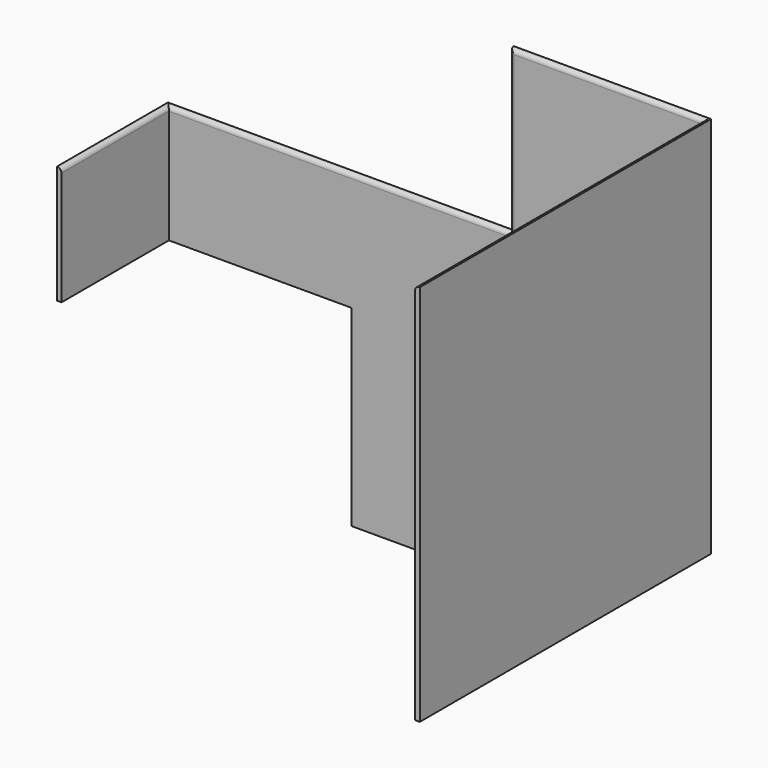
from build123d import *

# Parameters (mm, degrees)
F0_W     = 787.4
F0_H     = 422.275
F1_DEPTH = 19.05
F2_W     = 19.05
F2_H     = 485.775
F3_DEPTH = 571.5
F4_W     = 19.05
F4_H     = 1574.8
F5_DEPTH = 1498.6
F6_R     = 17.78


with BuildPart() as f1:
    # F0 (on Front) → F1 (new body)
    with BuildSketch(Plane.XZ):
        Polygon((1422.4, 0), (0, 0), (0, -485.775), (769.62, -485.775), (1422.4, -485.775), align=None)
        Polygon((1447.8, -485.775), (1422.4, -485.775), (769.62, -485.775), (769.62, -1276.35), (1447.8, -1276.35), (1447.8, -908.05), align=None)
        with Locations((1841.5, -696.9125)):
            Rectangle(F0_W, F0_H)
        Polygon((1422.4, 666.75), (1422.4, 0), (1422.4, -485.775), (1447.8, -485.775), (2235.2, -485.775), (2235.2, 666.75), align=None)
    extrude(amount=F1_DEPTH)

    # F2 (on face) → F3 (join)
    with BuildSketch(Plane(origin=(0, 0, 0), x_dir=(-1, 0, 0), z_dir=(0, 1, 0))):
        with Locations((-9.525, -242.8875)):
            Rectangle(F2_W, F2_H)
    extrude(amount=-F3_DEPTH)

    # F4 (on face) → F5 (join)
    with BuildSketch(Plane(origin=(0, 0, 0), x_dir=(-1, 0, 0), z_dir=(0, 1, 0))):
        with Locations((-2225.675, -120.65)):
            Rectangle(F4_W, F4_H)
    extrude(amount=-F5_DEPTH)

    # F6
    f6_edges = [f1.edges().sort_by_distance(p)[0] for p in [
        (720.725, -19.05, 0),
        (1422.4, -19.05, 333.375),
        (1819.275, -19.05, 666.75),
        (19.05, -295.275, 0),
        (2216.15, -758.825, 666.75),
    ]]
    fillet(f6_edges, radius=F6_R)


solid = f1.part
